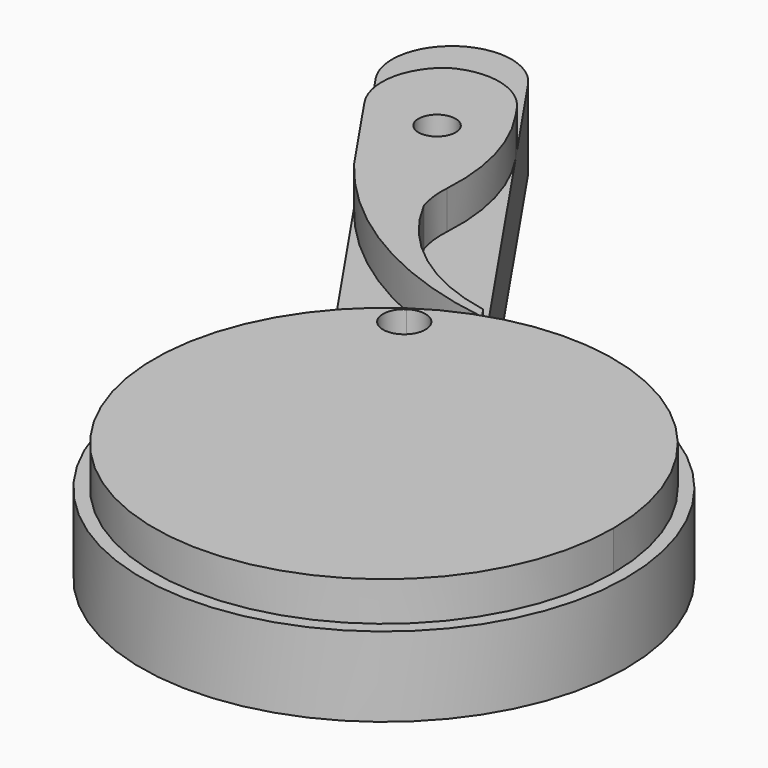
from build123d import *

# Parameters (mm, degrees)
F1_DEPTH = 15
F3_DEPTH = 7.4
F4_R     = 3.5
F5_DEPTH = 7.2
F6_DEPTH = 6
F7_DEPTH = 25
F8_R     = 38.5986647281


with BuildPart() as f1:
    # F0 (on Top) → F1 (new body)
    with BuildSketch(Plane.XY):
        with BuildLine():
            Line((-82.4606558202, 101.127655672), (-34.2268855042, 30.2821780703))
            ThreePointArc((-34.2268855042, 30.2821780703), (25.7190199287, -37.7759449108), (-15.6282255372, 42.9447152344))
            Line((-15.6282255372, 42.9447152344), (-63.8619958531, 113.790192836))
            ThreePointArc((-63.8619958531, 113.790192836), (-79.4925944186, 116.7582542375), (-82.4606558202, 101.127655672))
        make_face()
        with BuildLine():
            Line((-66.4149180642, 103.9466625656), (-47.8431968903, 76.6686279473))
            ThreePointArc((-47.8431968903, 76.6686279473), (-48.7929760943, 71.6668367089), (-53.7947674745, 72.6166151659))
            Line((-53.7947674745, 72.6166151659), (-72.3664967968, 99.8946442365))
            ThreePointArc((-72.3664967968, 99.8946442365), (-71.4167168976, 104.8964432118), (-66.4149180642, 103.9466625656))
        make_face(mode=Mode.SUBTRACT)
    extrude(amount=-F1_DEPTH)

    # F4 (on Top) → F7 (cut)
    with BuildSketch(Plane.XY):
        with BuildLine():
            ThreePointArc((-32.8016889476, 28.1888577666), (-24.3402103264, 35.7507574922), (-14.2030289806, 40.8513949306))
            ThreePointArc((-14.2030289806, 40.8513949306), (-39.302455448, 49.4773903569), (-59.2300941192, 67.0067435418))
            Line((-59.2300941192, 67.0067435418), (-32.8016889476, 28.1888577666))
        make_face()
        with BuildLine():
            ThreePointArc((-42.9959079664, 63.1521523853), (-31.6316767282, 49.787714397), (-15.5362989507, 42.8096940058))
            Line((-15.5362989507, 42.8096940058), (-40.2015814001, 79.0379155166))
            ThreePointArc((-40.2015814001, 79.0379155166), (-43.5597045958, 71.4399693711), (-42.9959079664, 63.1521523853))
        make_face()
    extrude(amount=F7_DEPTH, mode=Mode.SUBTRACT)


with BuildPart() as f3:
    # F2 (on Top) → F3 (new body)
    with BuildSketch(Plane.XY):
        with BuildLine():
            ThreePointArc((-24.3401946346, 35.7507681756), (-20.221882727, -38.2313740137), (43.25, 0))
            ThreePointArc((43.25, 0), (20.221882727, 38.2313740137), (-24.3401946346, 35.7507681756))
        make_face()
        with BuildLine():
            ThreePointArc((-19.6409843364, 28.8486002138), (-25.1985308083, 29.9039092742), (-24.1432217479, 35.4614557461))
            ThreePointArc((-24.1432217479, 35.4614557461), (-20.0218724177, 35.6908782895), (-17.8921030421, 32.15502798))
            ThreePointArc((-17.8921030421, 32.15502798), (-18.3562527326, 30.2847973556), (-19.6409843364, 28.8486002138))
        make_face(mode=Mode.SUBTRACT)
    extrude(amount=F3_DEPTH)


with BuildPart() as f5:
    # F4 (on Top) → F5 (new body)
    with BuildSketch(Plane.XY):
        with BuildLine():
            ThreePointArc((-59.2300941192, 67.0067435418), (-39.302455448, 49.4773903569), (-14.2030289806, 40.8513949306))
            Line((-14.2030289806, 40.8513949306), (-15.5362989507, 42.8096940058))
            ThreePointArc((-15.5362989507, 42.8096940058), (-31.6316767282, 49.787714397), (-42.9959079664, 63.1521523853))
            ThreePointArc((-42.9959079664, 63.1521523853), (-43.5597045958, 71.4399693711), (-40.2015814001, 79.0379155166))
            Line((-40.2015814001, 79.0379155166), (-51.7562156675, 96.009294238))
            ThreePointArc((-51.7562156675, 96.009294238), (-59.0693463715, 100.9695211574), (-67.7956957561, 99.577918411))
            ThreePointArc((-67.7956957561, 99.577918411), (-72.2891545839, 91.969070959), (-70.3548756346, 83.3467570739))
            Line((-70.3548756346, 83.3467570739), (-59.2300941192, 67.0067435418))
        make_face()
        with Locations((-52.3384835372, 76.874463517)):
            Circle(F4_R, mode=Mode.SUBTRACT)
        with Locations((-63.0312973894, 92.5799954062)):
            Circle(F4_R, mode=Mode.SUBTRACT)
        with Locations((-57.4270605157, 84.2978808781)):
            Circle(F4_R, mode=Mode.SUBTRACT)
        with Locations((-63.0312973894, 92.5799954062)):
            Circle(F4_R)
        with Locations((-52.3384835372, 76.874463517)):
            Circle(F4_R)
    extrude(amount=F5_DEPTH)

    # F4 (on Top) → F6 (join)
    with BuildSketch(Plane.XY):
        with Locations((-63.0312973894, 92.5799954062)):
            Circle(F4_R)
        with Locations((-52.3384835372, 76.874463517)):
            Circle(F4_R)
    extrude(amount=-F6_DEPTH)

    # F8
    f8_edges = [f5.edges().sort_by_distance(p)[0] for p in [
        (-40.201581, 79.037916, 3.6),
    ]]
    fillet(f8_edges, radius=F8_R)


solid = Compound([f1.part, f3.part, f5.part])
